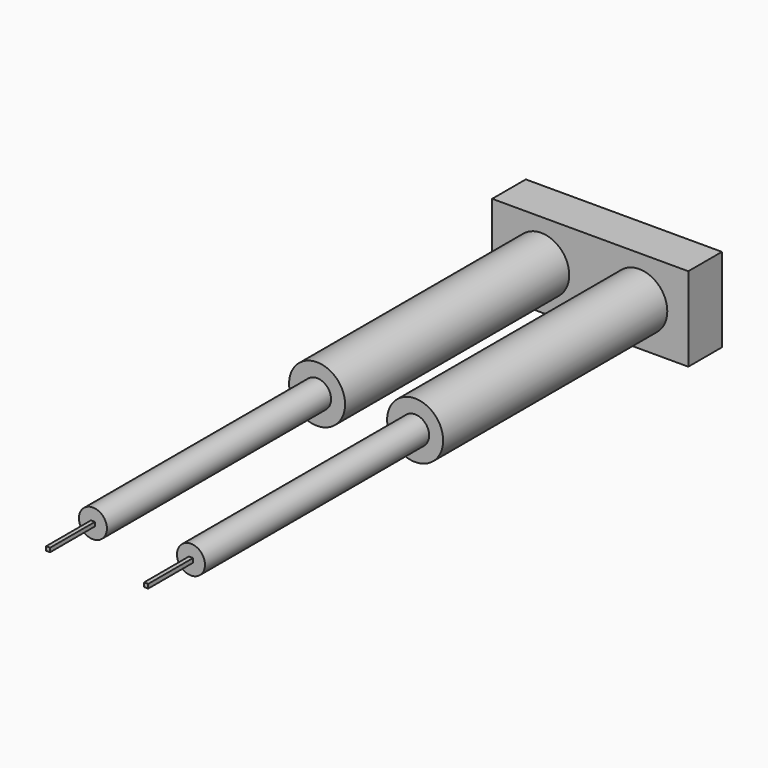
from build123d import *

# Parameters (mm, degrees)
F0_W     = 17.78
F0_H     = 7.62
F0_R     = 2.54
F0_R_2   = 1.27
F1_DEPTH = 3.81
F2_DEPTH = 50.8
F3_DEPTH = 25.4
F4_W     = 0.363861
F4_H     = 0.363861
F5_DEPTH = 5.08
F6_W     = 0.377071
F6_H     = 0.377071
F7_DEPTH = 5.08


with BuildPart() as f1:
    # F0 (on Front) → F1 (new body)
    with BuildSketch(Plane.XZ):
        with Locations((-35.528351, 23.59897)):
            Rectangle(F0_W, F0_H)
        with Locations((-39.973351, 23.59897)):
            Circle(F0_R, mode=Mode.SUBTRACT)
        with Locations((-31.083351, 23.59897)):
            Circle(F0_R, mode=Mode.SUBTRACT)
        with Locations((-39.973351, 23.59897)):
            Circle(F0_R)
        with Locations((-39.973351, 23.59897)):
            Circle(F0_R_2, mode=Mode.SUBTRACT)
        with Locations((-39.973351, 23.59897)):
            Circle(F0_R_2)
        with Locations((-31.083351, 23.59897)):
            Circle(F0_R)
        with Locations((-31.083351, 23.59897)):
            Circle(F0_R_2, mode=Mode.SUBTRACT)
        with Locations((-31.083351, 23.59897)):
            Circle(F0_R_2)
    extrude(amount=-F1_DEPTH)

    # F0 (on Front) → F2 (join)
    with BuildSketch(Plane.XZ):
        with Locations((-39.973351, 23.59897)):
            Circle(F0_R_2)
        with Locations((-31.083351, 23.59897)):
            Circle(F0_R_2)
    extrude(amount=F2_DEPTH)

    # F0 (on Front) → F3 (join)
    with BuildSketch(Plane.XZ):
        with Locations((-39.973351, 23.59897)):
            Circle(F0_R)
        with Locations((-39.973351, 23.59897)):
            Circle(F0_R_2, mode=Mode.SUBTRACT)
        with Locations((-31.083351, 23.59897)):
            Circle(F0_R)
        with Locations((-31.083351, 23.59897)):
            Circle(F0_R_2, mode=Mode.SUBTRACT)
    extrude(amount=F3_DEPTH)

    # F4 (on face) → F5 (join)
    with BuildSketch(Plane.XZ.offset(50.8)):
        with Locations((-39.97335, 23.598971)):
            Rectangle(F4_W, F4_H)
    extrude(amount=F5_DEPTH)

    # F6 (on face) → F7 (join)
    with BuildSketch(Plane.XZ.offset(50.8)):
        with Locations((-31.08335, 23.598971)):
            Rectangle(F6_W, F6_H)
    extrude(amount=F7_DEPTH)


solid = f1.part
